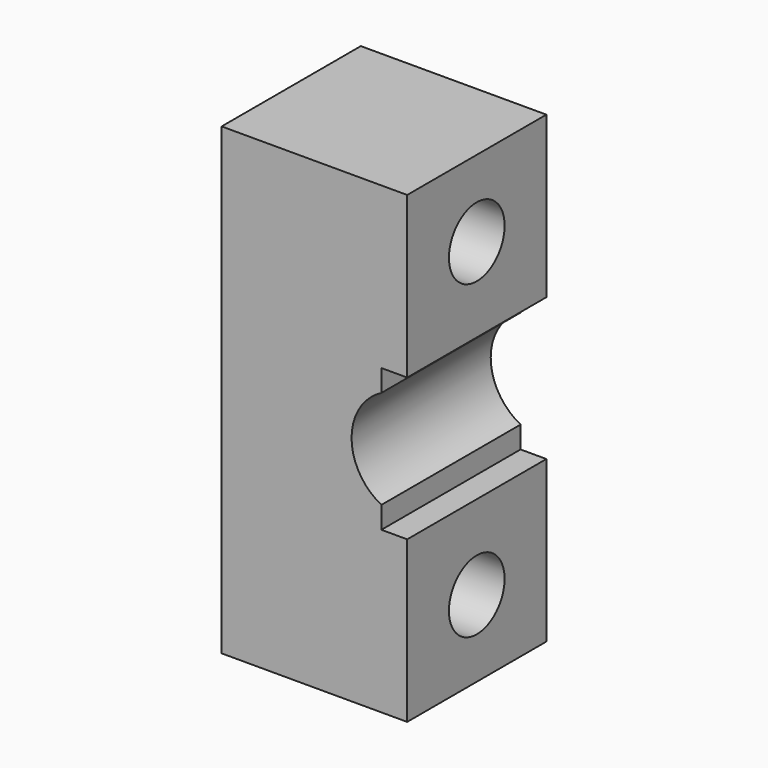
from build123d import *

# Parameters (mm, degrees)
F1_DEPTH = 19.05
F2_R     = 3.81
F3_DEPTH = 25.4


with BuildPart() as f1:
    # F0 (on Front) → F1 (new body)
    with BuildSketch(Plane.XZ):
        with BuildLine():
            Line((10.16, 7.7975), (10.16, 25.4))
            Line((10.16, 25.4), (-10.16, 25.4))
            Line((-10.16, 25.4), (-10.16, -25.4))
            Line((-10.16, -25.4), (10.16, -25.4))
            Line((10.16, -25.4), (10.16, -7.7975))
            Line((10.16, -7.7975), (7.334133, -7.7975))
            Line((7.334133, -7.7975), (7.334133, -5.3975))
            ThreePointArc((7.334133, -5.3975), (4.067502, 0.000618), (7.335229, 5.398074))
            Line((7.335229, 5.398074), (7.335229, 7.7975))
            Line((7.335229, 7.7975), (10.16, 7.7975))
        make_face()
    extrude(amount=F1_DEPTH)

    # F2 (on face) → F3 (cut)
    with BuildSketch(Plane(origin=(-10.16, 0, 0), x_dir=(0, -1, 0), z_dir=(-1, 0, 0))):
        with Locations((9.525, 17.018)):
            Circle(F2_R)
        with Locations((9.525, -17.018)):
            Circle(F2_R)
    extrude(amount=-F3_DEPTH, mode=Mode.SUBTRACT)


solid = f1.part
